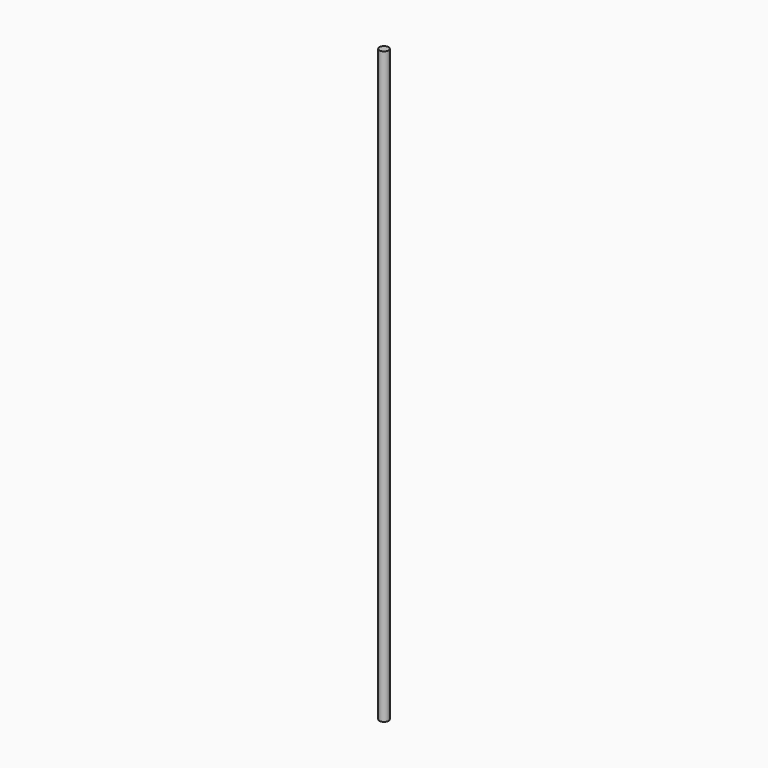
from build123d import *

# Parameters (mm, degrees)
CYLINDER_R        = 10
CYLINDER_DEPTH    = 1300
CYLINDER001_R     = 9.25
CYLINDER001_DEPTH = 1300


with BuildPart() as cylinder:
    # Cylinder → Cylinder (new body)
    with BuildSketch(Plane.XY):
        Circle(CYLINDER_R)
    extrude(amount=CYLINDER_DEPTH)


with BuildPart() as cylinder001:
    # Cylinder001 → Cylinder001 (new body)
    with BuildSketch(Plane.XY):
        Circle(CYLINDER001_R)
    extrude(amount=CYLINDER001_DEPTH)


solid = Compound([cylinder.part, cylinder001.part])
